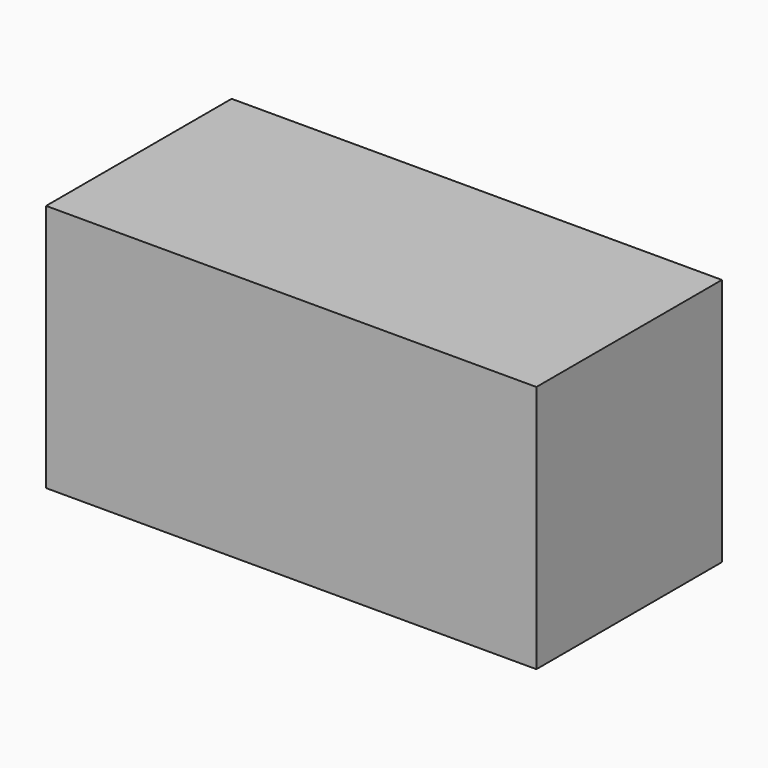
from build123d import *

# Parameters (mm, degrees)
F10_W     = 1480
F10_H     = 700
F11_DEPTH = 750


with BuildPart() as f11:
    # F10 (on face) → F11 (new body)
    with BuildSketch(Plane.XY):
        with Locations((2408.402205, 3145.111333)):
            Rectangle(F10_W, F10_H)
    extrude(amount=F11_DEPTH)


solid = f11.part
